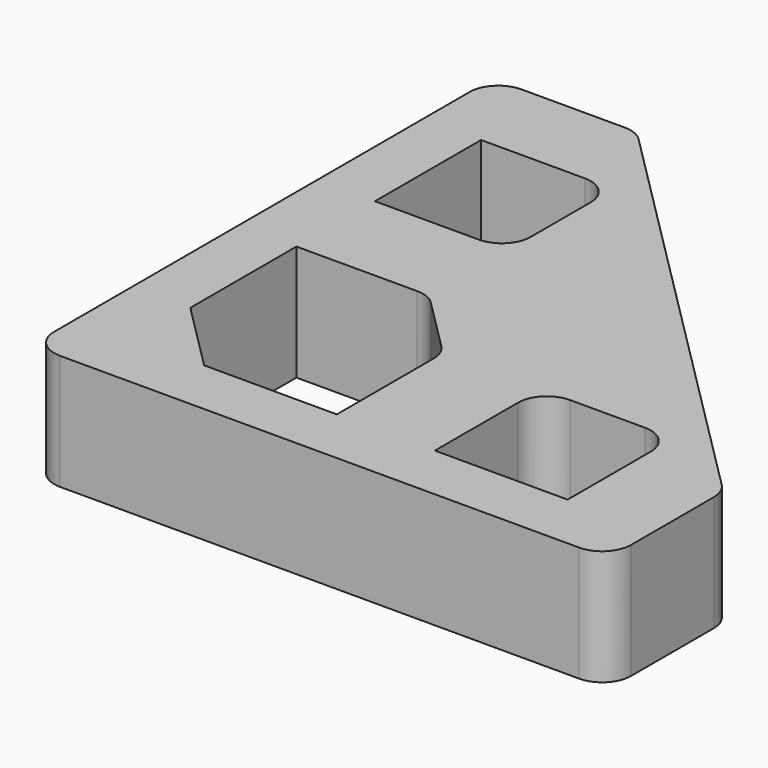
from build123d import *

# Parameters (mm, degrees)
F0_W     = 23
F0_H     = 23
F1_DEPTH = 20
F2_R     = 5


with BuildPart() as f1:
    # F0 (on Top) → F1 (new body)
    with BuildSketch(Plane.XY):
        Polygon((0, 100), (0, 0), (100, 0), (100, 25), (25, 100), align=None)
        Polygon((45, 10), (22, 10), (10, 22), (10, 45), (33, 45), (45, 33), align=None, mode=Mode.SUBTRACT)
        with Locations((73.5, 21.5)):
            Rectangle(F0_W, F0_H, mode=Mode.SUBTRACT)
        with Locations((21.5, 73.5)):
            Rectangle(F0_W, F0_H, mode=Mode.SUBTRACT)
    extrude(amount=F1_DEPTH)

    # F2
    f2_edges = [f1.edges().sort_by_distance(p)[0] for p in [
        (0, 100, 10),
        (25, 100, 10),
        (100, 25, 10),
        (100, 0, 10),
        (33, 45, 10),
        (45, 33, 10),
        (85, 33, 10),
        (33, 85, 10),
        (62, 33, 10),
        (33, 62, 10),
        (0, 0, 10),
    ]]
    fillet(f2_edges, radius=F2_R)


solid = f1.part
